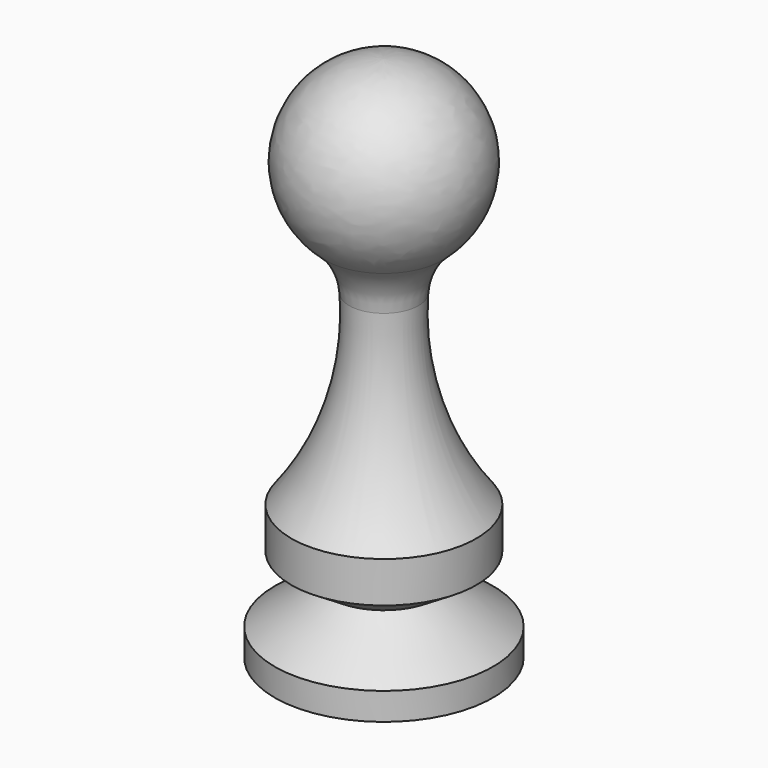
from build123d import *

# Parameters (mm, degrees)
F0_W = 8
F0_H = 2
F2_R = 5


with BuildPart() as f1:
    # F0 (on Front) → F1 (revolve)
    with BuildSketch(Plane.XZ):
        with BuildLine():
            Line((0, 32), (0, 38.59))
            ThreePointArc((0, 38.59), (-6.42345, 33.472207), (-2.87, 26.067783))
            Line((-2.87, 26.067783), (0, 26.067783))
            Line((0, 26.067783), (0, 32))
        make_face()
        with Locations((-4, 1)):
            Rectangle(F0_W, F0_H)
        Polygon((0, 2), (0, 5.14), (-3.999936, 5.117453), (-8, 2), align=None)
        Polygon((0, 5.14), (0, 6.87), (-6.78, 6.87), (-3.999936, 5.117453), align=None)
        with BuildLine():
            Line((0, 26.067783), (-2.87, 26.067783))
            ThreePointArc((-2.87, 26.067783), (-3.057781, 17.542301), (-6.78, 9.87))
            Line((-6.78, 9.87), (-6.78, 6.87))
            Line((-6.78, 6.87), (0, 6.87))
            Line((0, 6.87), (0, 26.067783))
        make_face()
    revolve(axis=Axis((0, 0, 19.295), (0, 0, -1)))

    # F2
    f2_edges = [f1.edges().sort_by_distance(p)[0] for p in [
        (2.87, 0, 26.067783),
    ]]
    fillet(f2_edges, radius=F2_R)


solid = f1.part
